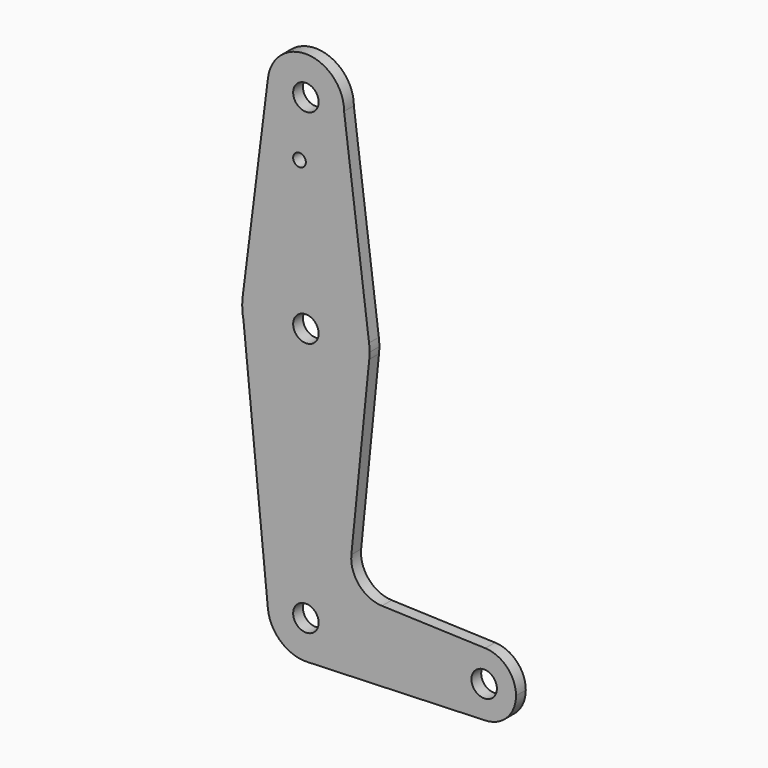
from build123d import *

# Parameters (mm, degrees)
F0_R     = 3.175
F0_R_2   = 1.5875
F1_DEPTH = 3.048


with BuildPart() as f1:
    # F0 (on Front) → F1 (new body)
    with BuildSketch(Plane.XZ):
        with BuildLine():
            ThreePointArc((-9.450293, 51.990622), (-0.596482, 41.293695), (9.525, 50.8))
            ThreePointArc((9.525, 50.8), (0.596482, 60.306305), (-9.450293, 51.990622))
        make_face()
        with Locations((0, 50.8)):
            Circle(F0_R, mode=Mode.SUBTRACT)
        with BuildLine():
            Line((15.747457, 2.008289), (9.525, 50.8))
            ThreePointArc((9.525, 50.8), (-0.596482, 41.293695), (-9.450293, 51.990622))
            Line((-9.450293, 51.990622), (-15.747457, 2.008289))
            ThreePointArc((-15.747457, 2.008289), (0, 15.875), (15.747457, 2.008289))
        make_face()
        with Locations((-1.5875, 36.5252)):
            Circle(F0_R_2, mode=Mode.SUBTRACT)
        with BuildLine():
            ThreePointArc((15.875, 0), (15.843082, 1.006168), (15.747457, 2.008289))
            ThreePointArc((15.747457, 2.008289), (0, 15.875), (-15.747457, 2.008289))
            ThreePointArc((-15.747457, 2.008289), (-15.843082, 1.006168), (-15.875, 0))
            Line((-15.875, 0), (-15.565216, -3.120845))
            ThreePointArc((-15.565216, -3.120845), (0.775265, -15.856058), (15.795426, -1.5875))
            ThreePointArc((15.795426, -1.5875), (15.855094, -0.794747), (15.875, 0))
        make_face()
        Circle(F0_R, mode=Mode.SUBTRACT)
        with BuildLine():
            Line((-15.565216, -3.120845), (-15.875, 0))
            ThreePointArc((-15.875, 0), (-15.797364, -1.568091), (-15.565216, -3.120845))
        make_face()
        with BuildLine():
            Line((11.341187, -45.906618), (15.795426, -1.5875))
            ThreePointArc((15.795426, -1.5875), (0.775265, -15.856058), (-15.565216, -3.120845))
            Line((-15.565216, -3.120845), (-9.478419, -64.440855))
            ThreePointArc((-9.478419, -64.440855), (-0.471004, -53.986652), (9.525, -63.5))
            ThreePointArc((9.525, -63.5), (6.854408, -70.113827), (0.340179, -73.018923))
            Line((0.340179, -73.018923), (44.733482, -71.432436))
            ThreePointArc((44.733482, -71.432436), (36.5125, -63.5), (44.733482, -55.567564))
            Line((44.733482, -55.567564), (18.9676, -54.646766))
            ThreePointArc((18.9676, -54.646766), (13.2612, -51.928641), (11.341187, -45.906618))
        make_face()
        with BuildLine():
            ThreePointArc((9.525, -63.5), (-0.471004, -53.986652), (-9.478419, -64.440855))
            ThreePointArc((-9.478419, -64.440855), (-6.266791, -70.673071), (0.340179, -73.018923))
            ThreePointArc((0.340179, -73.018923), (6.854408, -70.113827), (9.525, -63.5))
        make_face()
        with Locations((0, -63.5)):
            Circle(F0_R, mode=Mode.SUBTRACT)
        with BuildLine():
            ThreePointArc((52.3875, -63.5), (50.162007, -57.988477), (44.733482, -55.567564))
            ThreePointArc((44.733482, -55.567564), (36.5125, -63.5), (44.733482, -71.432436))
            ThreePointArc((44.733482, -71.432436), (50.162007, -69.011523), (52.3875, -63.5))
        make_face()
        with Locations((44.45, -63.5)):
            Circle(F0_R, mode=Mode.SUBTRACT)
    extrude(amount=F1_DEPTH)


solid = f1.part
